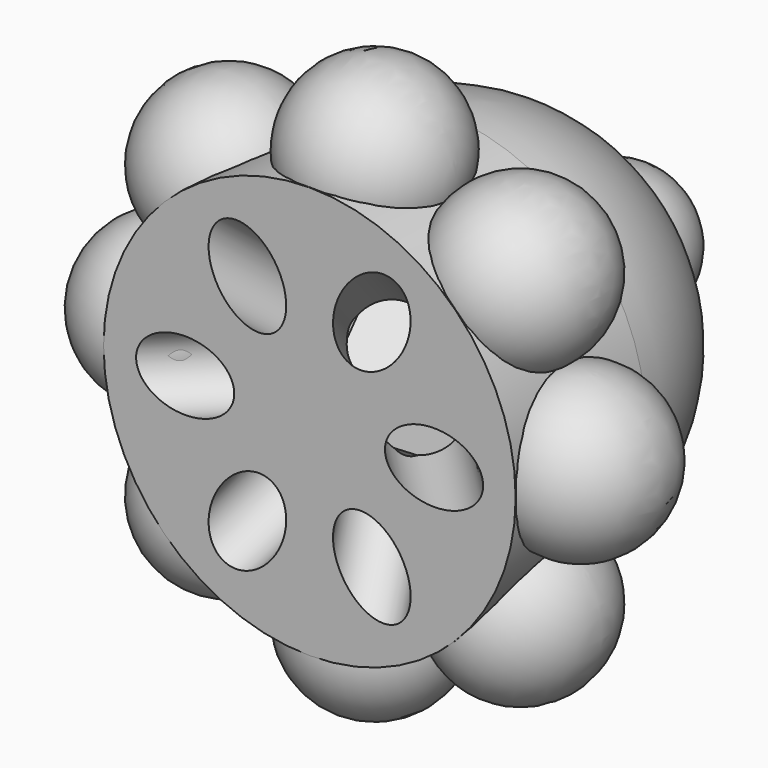
from build123d import *

# Parameters (mm, degrees)
F3_COUNT  = 8
F3_ANGLE  = 315
F4_R      = 19
F5_DEPTH  = 7.5
F13_COUNT = 6
F13_ANGLE = 300


with BuildPart() as f1:
    # F0 (on Front) → F1 (revolve)
    with BuildSketch(Plane.XZ):
        with BuildLine():
            Line((0, 19), (7.5, 19))
            ThreePointArc((7.5, 19), (0, 26.5), (-7.5, 19))
            Line((-7.5, 19), (0, 19))
        make_face()
    revolve(axis=Axis((0, 0, 19), (1, 0, 0)))


with BuildPart() as f3_1:
    # F3: instance of F1
    add(f1.part.rotate(Axis((0, -1.0877065361, 0), (0, -1, 0)), 1 * F3_ANGLE / (F3_COUNT - 1)))


with BuildPart() as f3_2:
    # F3: instance of F1
    add(f1.part.rotate(Axis((0, -1.0877065361, 0), (0, -1, 0)), 2 * F3_ANGLE / (F3_COUNT - 1)))


with BuildPart() as f3_3:
    # F3: instance of F1
    add(f1.part.rotate(Axis((0, -1.0877065361, 0), (0, -1, 0)), 3 * F3_ANGLE / (F3_COUNT - 1)))


with BuildPart() as f3_4:
    # F3: instance of F1
    add(f1.part.rotate(Axis((0, -1.0877065361, 0), (0, -1, 0)), 4 * F3_ANGLE / (F3_COUNT - 1)))


with BuildPart() as f3_5:
    # F3: instance of F1
    add(f1.part.rotate(Axis((0, -1.0877065361, 0), (0, -1, 0)), 5 * F3_ANGLE / (F3_COUNT - 1)))


with BuildPart() as f3_6:
    # F3: instance of F1
    add(f1.part.rotate(Axis((0, -1.0877065361, 0), (0, -1, 0)), 6 * F3_ANGLE / (F3_COUNT - 1)))


with BuildPart() as f3_7:
    # F3: instance of F1
    add(f1.part.rotate(Axis((0, -1.0877065361, 0), (0, -1, 0)), 7 * F3_ANGLE / (F3_COUNT - 1)))


with BuildPart() as f5:
    # F4 (on Front) → F5 (new body, symmetric)
    with BuildSketch(Plane.XZ):
        Circle(F4_R)
    extrude(amount=F5_DEPTH, both=True)


with BuildPart() as f8:
    # F6 (on Right) → F8 (revolve)
    with BuildSketch(Plane.YZ):
        with BuildLine():
            Line((7.5, 0), (26.5, 0))
            ThreePointArc((26.5, 0), (20.9350288425, 13.4350288425), (7.5, 19))
            Line((7.5, 19), (7.5, 0))
        make_face()
    revolve(axis=Axis((0, -1.8397793174, 0), (0, -1, 0)))


with BuildPart() as f10:
    # F9 (on Right) → F10 (revolve)
    with BuildSketch(Plane.YZ):
        with BuildLine():
            Line((21, 0), (34, 0))
            ThreePointArc((34, 0), (27.5, 6.5), (21, 0))
        make_face()
    revolve(axis=Axis((0, -1.8397793174, 0), (0, -1, 0)))


with BuildPart() as f12:
    # F11 (on Top) → F12 (revolve)
    with BuildSketch(Plane.XY):
        Polygon((-8, 0.5), (-16, -7.5), (-11.4745166004, -7.5), (-5.7372583002, -1.7627416998), align=None)
    revolve(axis=Axis((31.4245978892, 35.3991144896, 0), (0.7071067812, 0.7071067812, 0)))


with BuildPart() as f13_1:
    # F13: instance of F12
    add(f12.part.rotate(Axis((0, -1.8397793174, 0), (0, -1, 0)), 1 * F13_ANGLE / (F13_COUNT - 1)))


with BuildPart() as f13_2:
    # F13: instance of F12
    add(f12.part.rotate(Axis((0, -1.8397793174, 0), (0, -1, 0)), 2 * F13_ANGLE / (F13_COUNT - 1)))


with BuildPart() as f13_3:
    # F13: instance of F12
    add(f12.part.rotate(Axis((0, -1.8397793174, 0), (0, -1, 0)), 3 * F13_ANGLE / (F13_COUNT - 1)))


with BuildPart() as f13_4:
    # F13: instance of F12
    add(f12.part.rotate(Axis((0, -1.8397793174, 0), (0, -1, 0)), 4 * F13_ANGLE / (F13_COUNT - 1)))


with BuildPart() as f13_5:
    # F13: instance of F12
    add(f12.part.rotate(Axis((0, -1.8397793174, 0), (0, -1, 0)), 5 * F13_ANGLE / (F13_COUNT - 1)))


with BuildPart() as f5_1:
    add(f5.part)

    # F14: cut F13_3, F12, F13_1, F13_2, F13_4, F13_5
    add(f13_3.part, mode=Mode.SUBTRACT)
    add(f12.part, mode=Mode.SUBTRACT)
    add(f13_1.part, mode=Mode.SUBTRACT)
    add(f13_2.part, mode=Mode.SUBTRACT)
    add(f13_4.part, mode=Mode.SUBTRACT)
    add(f13_5.part, mode=Mode.SUBTRACT)


solid = Compound([f1.part, f3_1.part, f3_2.part, f3_3.part, f3_4.part, f3_5.part, f3_6.part, f3_7.part, f8.part, f10.part, f5_1.part])
